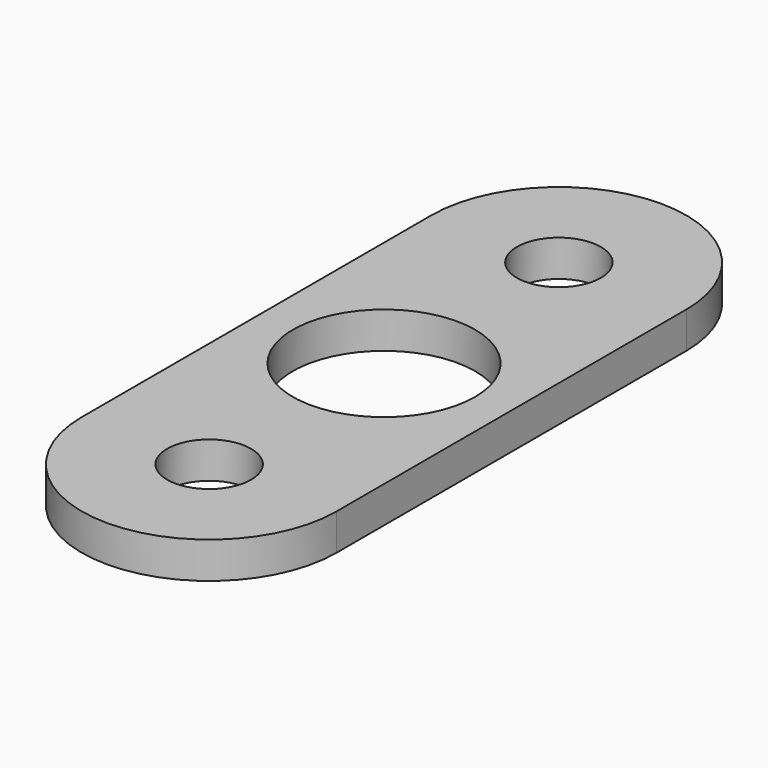
from build123d import *

# Parameters (mm, degrees)
F0_R     = 1.8288
F0_R_2   = 3.96875
F1_DEPTH = 1.5875


with BuildPart() as f1:
    # F0 (on Top) → F1 (new body)
    with BuildSketch(Plane.XY):
        with BuildLine():
            Line((5.55625, -9.525), (5.55625, 9.525))
            ThreePointArc((5.55625, 9.525), (0, 15.08125), (-5.55625, 9.525))
            Line((-5.55625, 9.525), (-5.55625, -9.525))
            ThreePointArc((-5.55625, -9.525), (0, -15.08125), (5.55625, -9.525))
        make_face()
        with Locations((0, -9.525)):
            Circle(F0_R, mode=Mode.SUBTRACT)
        Circle(F0_R_2, mode=Mode.SUBTRACT)
        with Locations((0, 9.525)):
            Circle(F0_R, mode=Mode.SUBTRACT)
    extrude(amount=F1_DEPTH)


solid = f1.part
